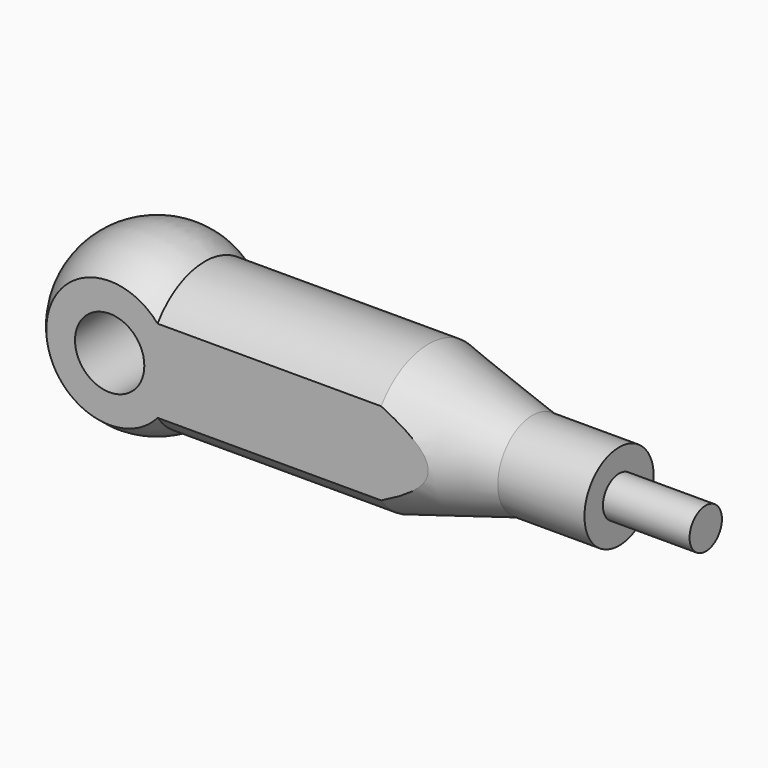
from build123d import *

# Parameters (mm, degrees)
F0_W     = 15
F0_H     = 3.5
F2_R     = 6
F3_DEPTH = 50
F5_DEPTH = 25


with BuildPart() as f1:
    # F0 (on Front) → F1 (revolve)
    with BuildSketch(Plane.XZ):
        with BuildLine():
            Line((62, 12.5), (23.291562, 12.5))
            ThreePointArc((23.291562, 12.5), (7.906814, 13.21691), (0, 0))
            Line((0, 0), (62, 0))
            Line((62, 0), (62, 12.5))
        make_face()
        Polygon((80, 7.5), (62, 12.5), (62, 0), (80, 0), align=None)
        Polygon((95, 7.5), (80, 7.5), (80, 0), (95, 0), (95, 3.5), align=None)
        with Locations((102.5, 1.75)):
            Rectangle(F0_W, F0_H)
    revolve(axis=Axis((60.8708, 0, 0), (1, 0, 0)))

    # F2 (on Front) → F3 (cut, symmetric)
    with BuildSketch(Plane.XZ):
        with Locations((15, 0)):
            Circle(F2_R)
    extrude(amount=F3_DEPTH, both=True, mode=Mode.SUBTRACT)

    # F4 (on Top) → F5 (cut, symmetric)
    with BuildSketch(Plane.XY):
        Polygon((0, -10.235786), (0, 0), (0, 9.764214), (74.575491, 9.764214), (74.575491, 15), (-74.575491, 15), (-74.575491, -15), (74.575491, -15), (74.575491, -10.235786), align=None)
    extrude(amount=F5_DEPTH, both=True, mode=Mode.SUBTRACT)


solid = f1.part
